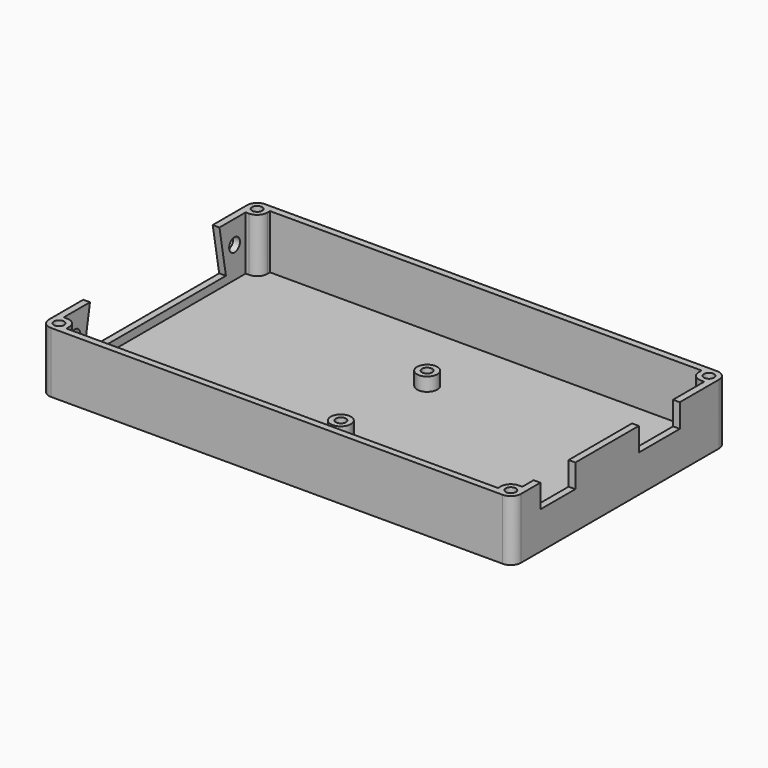
from build123d import *

# Parameters (mm, degrees)
F1_W      = 111.125
F1_H      = 63.0682
F2_DEPTH  = 1.5875
F3_W      = 111.125
F3_H      = 63.0682
F3_R      = 1.190625
F4_DEPTH  = 12.7
F5_R      = 2.38125
F7_DEPTH  = 1.5875
F9_R      = 1.5875
F10_DEPTH = 1.5875
F11_R     = 2.38125
F12_DEPTH = 3.175
F13_R     = 1.190625
F14_DEPTH = 4.7635
F15_R     = 1.190625
F16_DEPTH = 14.2885


with BuildPart() as f2:
    # F1 (on Top) → F2 (new body)
    with BuildSketch(Plane.XY):
        Rectangle(F1_W, F1_H)
    extrude(amount=F2_DEPTH)

    # F3 (on face) → F4 (join)
    with BuildSketch(Plane.XY.offset(1.5875)):
        Rectangle(F3_W, F3_H)
        with Locations((-53.18125, -29.15285)):
            Circle(F3_R, mode=Mode.SUBTRACT)
        with Locations((53.18125, -29.15285)):
            Circle(F3_R, mode=Mode.SUBTRACT)
        with BuildLine():
            Line((53.18125, 26.7716), (53.975, 26.7716))
            Line((53.975, 26.7716), (53.975, -26.7716))
            Line((53.975, -26.7716), (53.18125, -26.7716))
            ThreePointArc((53.18125, -26.7716), (51.497452, -27.469052), (50.8, -29.15285))
            Line((50.8, -29.15285), (50.8, -29.9466))
            Line((50.8, -29.9466), (-50.8, -29.9466))
            Line((-50.8, -29.9466), (-50.8, -29.15285))
            ThreePointArc((-50.8, -29.15285), (-51.497452, -27.469052), (-53.18125, -26.7716))
            Line((-53.18125, -26.7716), (-53.975, -26.7716))
            Line((-53.975, -26.7716), (-53.975, 26.7716))
            Line((-53.975, 26.7716), (-53.18125, 26.7716))
            ThreePointArc((-53.18125, 26.7716), (-51.497452, 27.469052), (-50.8, 29.15285))
            Line((-50.8, 29.15285), (-50.8, 29.9466))
            Line((-50.8, 29.9466), (50.8, 29.9466))
            Line((50.8, 29.9466), (50.8, 29.15285))
            ThreePointArc((50.8, 29.15285), (51.497452, 27.469052), (53.18125, 26.7716))
        make_face(mode=Mode.SUBTRACT)
        with Locations((-53.18125, 29.15285)):
            Circle(F3_R, mode=Mode.SUBTRACT)
        with Locations((53.18125, 29.15285)):
            Circle(F3_R, mode=Mode.SUBTRACT)
    extrude(amount=F4_DEPTH)

    # F5
    f5_edges = [f2.edges().sort_by_distance(p)[0] for p in [
        (55.5625, -31.5341, 7.14375),
        (55.5625, 31.5341, 7.14375),
        (-55.5625, -31.5341, 7.14375),
        (-55.5625, 31.5341, 7.14375),
    ]]
    fillet(f5_edges, radius=F5_R)

    # F6 (on face) → F7 (cut, through all)
    with BuildSketch(Plane.YZ.offset(55.5625)):
        Polygon((-13.1445, 14.2875), (-17.5895, 14.2875), (-23.4315, 14.2875), (-23.4315, 8.763), (-17.5895, 8.763), (-13.1445, 8.763), align=None)
        Polygon((5.5245, 8.763), (13.1445, 8.763), (17.5895, 8.763), (17.5895, 14.2875), (5.5245, 14.2875), align=None)
    extrude(amount=-F7_DEPTH, mode=Mode.SUBTRACT)

    # F9 (on face) → F10 (cut, through all)
    with BuildSketch(Plane(origin=(-55.5625, 0, 0), x_dir=(0, -1, 0), z_dir=(-1, 0, 0))):
        Polygon((19.05, 14.2875), (-19.05, 14.2875), (-20.955, 3.4925), (20.955, 3.4925), align=None)
        with Locations((-23.495, 8.89)):
            Circle(F9_R)
        with Locations((23.495, 8.89)):
            Circle(F9_R)
    extrude(amount=-F10_DEPTH, mode=Mode.SUBTRACT)

    # F11 (on face) → F12 (join)
    with BuildSketch(Plane.XY.offset(1.5875)):
        with Locations((0, 12.7)):
            Circle(F11_R)
        with Locations((0, -12.7)):
            Circle(F11_R)
    extrude(amount=F12_DEPTH)

    # F13 (on face) → F14 (cut, through all)
    with BuildSketch(Plane.XY.offset(4.7625)):
        with Locations((0, 12.7)):
            Circle(F13_R)
        with Locations((0, -12.7)):
            Circle(F13_R)
    extrude(amount=-F14_DEPTH, mode=Mode.SUBTRACT)

    # F15 (on face) → F16 (cut, through all)
    with BuildSketch(Plane.XY.offset(14.2875)):
        with Locations((53.18125, 29.15285)):
            Circle(F15_R)
        with Locations((53.18125, -29.15285)):
            Circle(F15_R)
        with Locations((-53.18125, -29.15285)):
            Circle(F15_R)
        with Locations((-53.18125, 29.15285)):
            Circle(F15_R)
    extrude(amount=-F16_DEPTH, mode=Mode.SUBTRACT)


solid = f2.part
